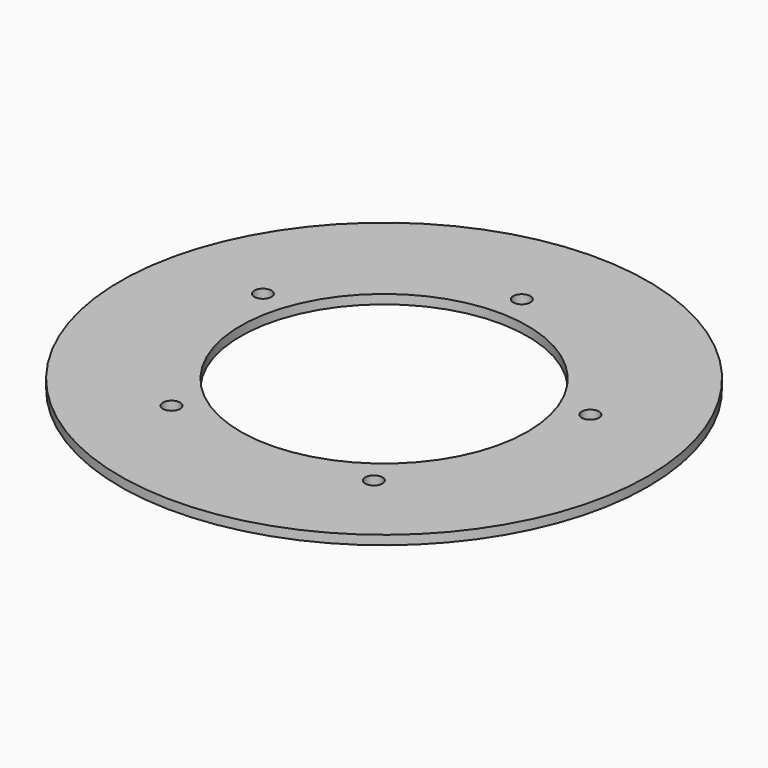
from build123d import *

# Parameters (mm, degrees)
F0_R     = 46
F0_R_2   = 25
F1_DEPTH = 1.6
F2_R     = 1.5
F3_DEPTH = 25.4


with BuildPart() as f1:
    # F0 (on Top) → F1 (new body)
    with BuildSketch(Plane.XY):
        Circle(F0_R)
        Circle(F0_R_2, mode=Mode.SUBTRACT)
    extrude(amount=F1_DEPTH)

    # F2 (on face) → F3 (cut)
    with BuildSketch(Plane.XY.offset(1.6)):
        with Locations((0, 30)):
            Circle(F2_R)
        with Locations((-28.531695, 9.27051)):
            Circle(F2_R)
        with Locations((-17.633558, -24.27051)):
            Circle(F2_R)
        with Locations((17.633558, -24.27051)):
            Circle(F2_R)
        with Locations((28.531695, 9.27051)):
            Circle(F2_R)
    extrude(amount=-F3_DEPTH, mode=Mode.SUBTRACT)


solid = f1.part
